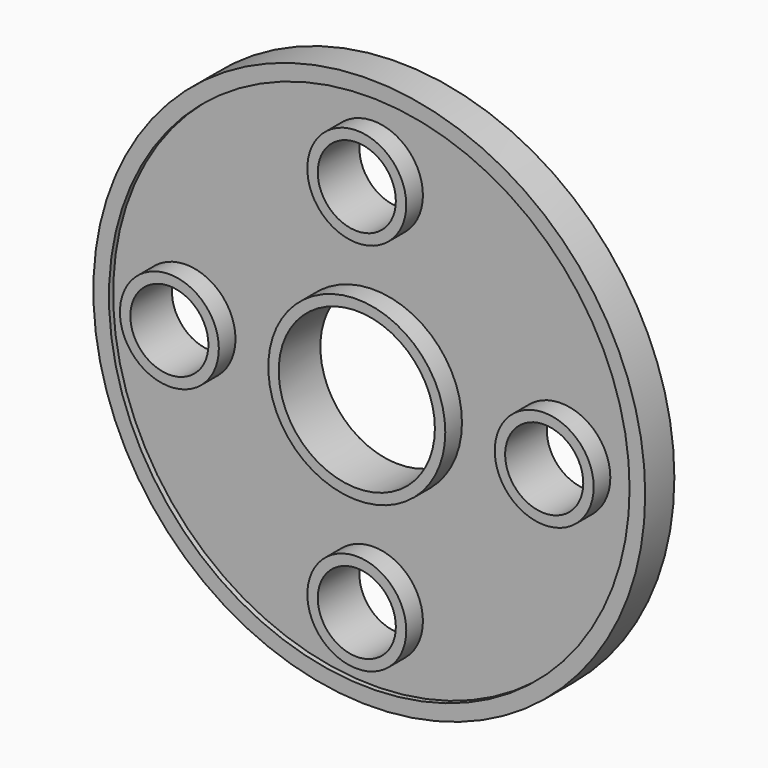
from build123d import *

# Parameters (mm, degrees)
F0_R     = 53
F0_R_2   = 50
F1_DEPTH = 7
F0_R_3   = 9.5
F0_R_4   = 17
F2_DEPTH = 6
F0_R_5   = 7.5
F3_DEPTH = 10
F4_DEPTH = 10
F0_R_6   = 15
F5_DEPTH = 10
F6_DEPTH = 10
F7_DEPTH = 10


with BuildPart() as f1:
    # F0 (on Front) → F1 (new body)
    with BuildSketch(Plane.XZ):
        Circle(F0_R)
        Circle(F0_R_2, mode=Mode.SUBTRACT)
    extrude(amount=F1_DEPTH)

    # F0 (on Front) → F2 (join)
    with BuildSketch(Plane.XZ):
        Circle(F0_R_2)
        with Locations((0, -36)):
            Circle(F0_R_3, mode=Mode.SUBTRACT)
        with Locations((-36, 0)):
            Circle(F0_R_3, mode=Mode.SUBTRACT)
        Circle(F0_R_4, mode=Mode.SUBTRACT)
        with Locations((36, 0)):
            Circle(F0_R_3, mode=Mode.SUBTRACT)
        with Locations((0, 36)):
            Circle(F0_R_3, mode=Mode.SUBTRACT)
    extrude(amount=F2_DEPTH)

    # F0 (on Front) → F3 (join)
    with BuildSketch(Plane.XZ):
        with Locations((36, 0)):
            Circle(F0_R_3)
        with Locations((36, 0)):
            Circle(F0_R_5, mode=Mode.SUBTRACT)
    extrude(amount=F3_DEPTH)

    # F0 (on Front) → F4 (join)
    with BuildSketch(Plane.XZ):
        with Locations((0, 36)):
            Circle(F0_R_3)
        with Locations((0, 36)):
            Circle(F0_R_5, mode=Mode.SUBTRACT)
    extrude(amount=F4_DEPTH)

    # F0 (on Front) → F5 (join)
    with BuildSketch(Plane.XZ):
        Circle(F0_R_4)
        Circle(F0_R_6, mode=Mode.SUBTRACT)
    extrude(amount=F5_DEPTH)

    # F0 (on Front) → F6 (join)
    with BuildSketch(Plane.XZ):
        with Locations((-36, 0)):
            Circle(F0_R_3)
        with Locations((-36, 0)):
            Circle(F0_R_5, mode=Mode.SUBTRACT)
    extrude(amount=F6_DEPTH)

    # F0 (on Front) → F7 (join)
    with BuildSketch(Plane.XZ):
        with Locations((0, -36)):
            Circle(F0_R_3)
        with Locations((0, -36)):
            Circle(F0_R_5, mode=Mode.SUBTRACT)
    extrude(amount=F7_DEPTH)


solid = f1.part
